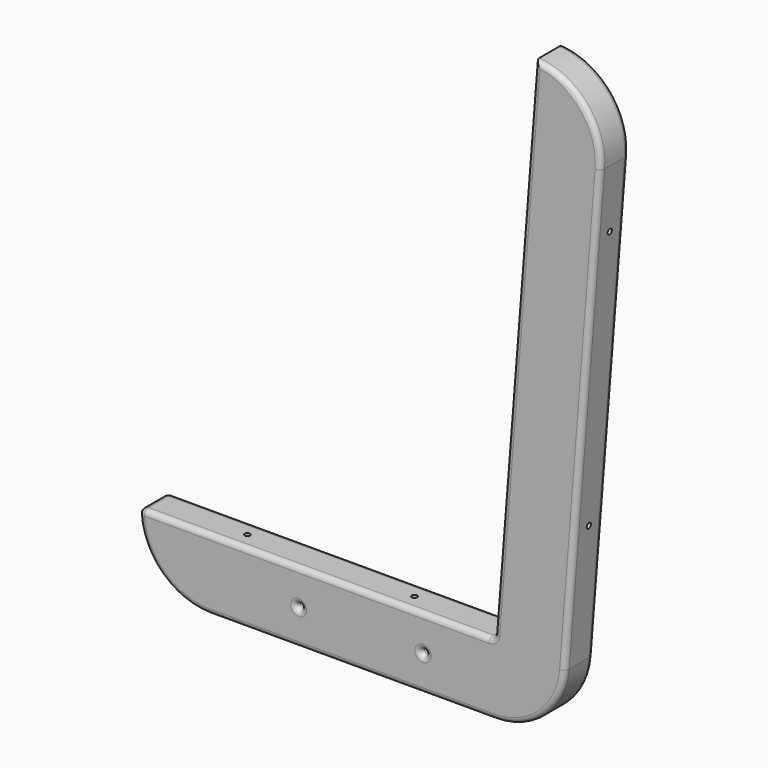
from build123d import *

# Parameters (mm, degrees)
F0_R     = 1.5
F1_DEPTH = 10
F2_R     = 3
F4_D     = 3
F4_DEPTH = 40
F4_TIP   = 0.9012909285
F5_D     = 3
F5_DEPTH = 40
F5_TIP   = 0.9012909285
F7_D     = 3
F7_DEPTH = 40
F7_TIP   = 0.9012909285


with BuildPart() as f1:
    # F0 (on Front) → F1 (new body, symmetric)
    with BuildSketch(Plane.XZ):
        with BuildLine():
            Line((-77.9268393369, -77.9139535325), (-117.9268393369, -77.9139535325))
            ThreePointArc((-117.9268393369, -77.9139535325), (-106.2111105844, -106.1982247799), (-77.9268393369, -117.9139535325))
            Line((-77.9268393369, -117.9139535325), (82.0731606631, -117.9139535325))
            ThreePointArc((82.0731606631, -117.9139535325), (109.2279532347, -107.2842998088), (121.9504437076, -81.0448155521))
            Line((121.9504437076, -81.0448155521), (141.9331561761, 173.4717604288))
            ThreePointArc((141.9331561761, 173.4717604288), (132.4672241527, 202.5862659395), (105.1867351512, 216.4799054929))
            Line((105.1867351512, 216.4799054929), (102.0558731315, 176.6026224484))
            Line((102.0558731315, 176.6026224484), (82.0731606631, -77.9139535325))
            Line((82.0731606631, -77.9139535325), (-77.9268393369, -77.9139535325))
        make_face()
        with Locations((-27.9268393369, -97.9139535325)):
            Circle(F0_R, mode=Mode.SUBTRACT)
        with BuildLine():
            ThreePointArc((43.5731606631, -97.9139535325), (42.0731606631, -99.4139535325), (40.5731606631, -97.9139535325))
            ThreePointArc((40.5731606631, -97.9139535325), (42.0731606631, -96.4139535325), (43.5731606631, -97.9139535325))
        make_face(mode=Mode.SUBTRACT)
    extrude(amount=F1_DEPTH, both=True)

    # F2
    f2_edges = [f1.edges().sort_by_distance(p)[0] for p in [
        (-17.926839, -10, -77.913954),
        (-106.211111, -10, -106.198225),
        (2.073161, -10, -117.913954),
        (109.227953, -10, -107.2843),
        (131.9418, -10, 46.213472),
        (132.467224, -10, 202.586266),
        (93.629948, -10, 69.282976),
        (-29.426839, -10, -97.913954),
        (43.573161, -10, -97.913954),
        (-17.926839, 10, -77.913954),
        (-106.211111, 10, -106.198225),
        (2.073161, 10, -117.913954),
        (109.227953, 10, -107.2843),
        (131.9418, 10, 46.213472),
        (132.467224, 10, 202.586266),
        (93.629948, 10, 69.282976),
        (-29.426839, 10, -97.913954),
        (43.573161, 10, -97.913954),
        (-117.926839, 0, -77.913954),
        (82.073161, 0, -77.913954),
    ]]
    fillet(f2_edges, radius=F2_R)

    # F4
    with Locations(Plane.XY.offset(-77.9139535325)):
        with Locations((-64.8050171661, 0)):
            Hole(F4_D / 2, depth=F4_DEPTH)
            with Locations((0, 0, -(F4_DEPTH + F4_TIP / 2))):  # 118° drill point
                Cone(0, F4_D / 2, F4_TIP, mode=Mode.SUBTRACT)

    # F5
    with Locations(Plane.XY.offset(-77.9139535325)):
        with Locations((29.2994658299, 0)):
            Hole(F5_D / 2, depth=F5_DEPTH)
            with Locations((0, 0, -(F5_DEPTH + F5_TIP / 2))):  # 118° drill point
                Cone(0, F5_D / 2, F5_TIP, mode=Mode.SUBTRACT)

    # F7
    with Locations(Plane(origin=(87.6500811083, 0, -6.8816200355), x_dir=(0, -1, 0), z_dir=(-0.9969320761, 0, 0.0782715505))):
        with Locations((0, 149.0488904712), (0, -0.9511095288)):
            Hole(F7_D / 2, depth=F7_DEPTH)
            with Locations((0, 0, -(F7_DEPTH + F7_TIP / 2))):  # 118° drill point
                Cone(0, F7_D / 2, F7_TIP, mode=Mode.SUBTRACT)


solid = f1.part
